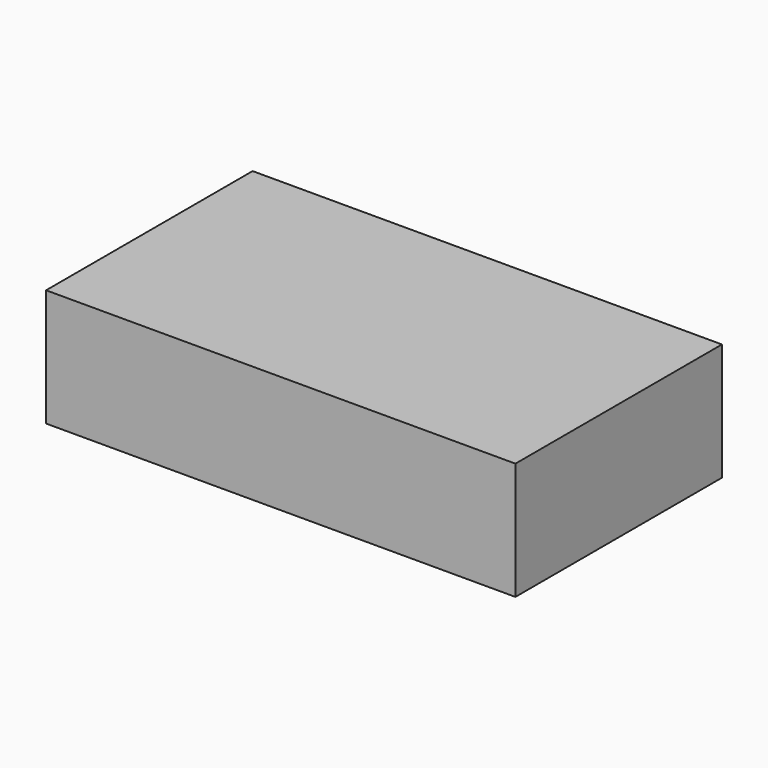
from build123d import *

# Parameters (mm, degrees)
F1_W     = 200
F1_H     = 110
F2_DEPTH = 50
F3_R     = 1.5
F4_DEPTH = 5


with BuildPart() as f2:
    # F1 (on Top) → F2 (new body)
    with BuildSketch(Plane.XY):
        Rectangle(F1_W, F1_H)
    extrude(amount=F2_DEPTH)

    # F3 (on face) → F4 (cut)
    with BuildSketch(Plane(origin=(0, 0, 0), x_dir=(1, 0, 0), z_dir=(0, 0, -1))):
        with Locations((-40, 40)):
            Circle(F3_R)
        with Locations((-40, -45)):
            Circle(F3_R)
        with Locations((85, -45)):
            Circle(F3_R)
        with Locations((85, 40)):
            Circle(F3_R)
    extrude(amount=-F4_DEPTH, mode=Mode.SUBTRACT)


solid = f2.part
